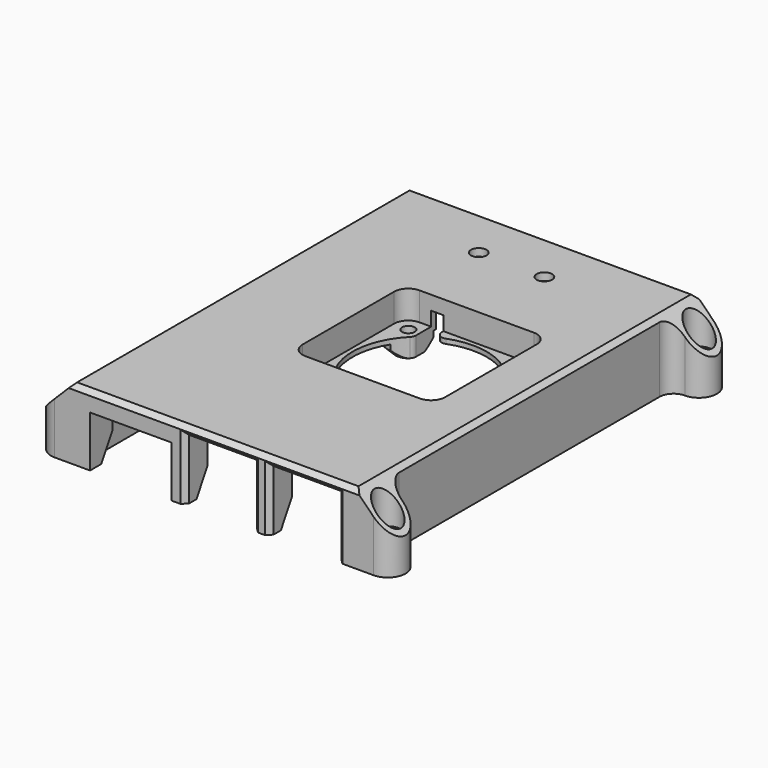
from build123d import *

# Parameters (mm, degrees)
PAD004_DEPTH         = 15
POCKET008_DEPTH      = 45.301
POCKET008_DEPTH_BACK = 45.301
HOLE002_D            = 3.3
HOLE002_CBORE_D      = 5.6
HOLE002_CBORE_DEPTH  = 8.8
POCKET010_DEPTH      = 13.4
PAD005_DEPTH         = 29
SKETCH019_W          = 17.4
SKETCH019_H          = 11.9
SKETCH019_W_2        = 14.5
SKETCH019_H_2        = 13.9
POCKET011_DEPTH      = 8
SKETCH021_W          = 16.5
SKETCH021_H          = 14.9
POCKET012_DEPTH      = 1.2
SKETCH022_W          = 16.5
SKETCH022_H          = 1.9
POCKET013_DEPTH      = 2
SKETCH023_W          = 22.5
SKETCH023_H          = 6
SKETCH023_W_2        = 15
SKETCH023_H_2        = 2
PAD006_DEPTH         = 0.5
SKETCH024_W          = 16.5
SKETCH024_H          = 5
POCKET014_DEPTH      = 5
SKETCH025_W          = 19.5
SKETCH025_H          = 5.5
SKETCH025_W_2        = 12
SKETCH025_H_2        = 1.5
POCKET015_DEPTH      = 1.2
POCKET015_DEPTH_BACK = 5
SKETCH026_R          = 2
SKETCH026_W          = 18
SKETCH026_H          = 1.5
POCKET016_DEPTH      = 3
SKETCH029_R          = 1.65
POCKET019_DEPTH      = 15.001
CHAMFER_SIZE         = 1.19
CHAMFER001_SIZE      = 0.99
CHAMFER002_SIZE      = 0.49
CHAMFER009_SIZE      = 1
PAD007_DEPTH         = 6
POCKET022_DEPTH      = 6
SKETCH036_R          = 4.5
PAD008_DEPTH         = 3
SKETCH034_R          = 14.3
SKETCH034_R_2        = 1.35
POCKET023_DEPTH      = 0.001
POCKET023_DEPTH_BACK = 15.001
SKETCH035_W          = 2.6
SKETCH035_H          = 10
POCKET024_DEPTH      = 20
CHAMFER010_SIZE      = 1.8
FILLET_R             = 1.5


with BuildPart() as part:
    # Sketch014 → Pad004 (new body)
    with BuildSketch(Plane.XY):
        with BuildLine():
            Line((-31, -34.7), (-31, 34.7))
            ThreePointArc((-31, 34.7), (-31.87868, 36.82132), (-34, 37.7))
            ThreePointArc((-34, 45.3), (-37.8, 41.5), (-34, 37.7))
            Line((-34, 45.3), (34, 45.3))
            ThreePointArc((34, 37.7), (37.8, 41.5), (34, 45.3))
            ThreePointArc((34, 37.7), (31.87868, 36.82132), (31, 34.7))
            Line((31, 34.7), (31, -34.7))
            ThreePointArc((31, -34.7), (31.87868, -36.82132), (34, -37.7))
            ThreePointArc((34, -45.3), (37.8, -41.5), (34, -37.7))
            Line((34, -45.3), (-34, -45.3))
            ThreePointArc((-34, -37.7), (-37.8, -41.5), (-34, -45.3))
            ThreePointArc((-34, -37.7), (-31.87868, -36.82132), (-31, -34.7))
        make_face()
    extrude(amount=PAD004_DEPTH)

    # Sketch015 → Pocket008 (cut, two sides)
    with BuildSketch(Plane.XZ) as pocket008_sk:
        Polygon((-39, 6), (-30, 15), (30, 15), (39, 6), (39, 17), (-39, 17), align=None)
    extrude(amount=-POCKET008_DEPTH, mode=Mode.SUBTRACT)
    extrude(pocket008_sk.sketch, amount=POCKET008_DEPTH_BACK, mode=Mode.SUBTRACT)

    # Hole002 (through all)
    with Locations(Plane.XY.offset(15)):
        with Locations((-34, 41.5), (34, 41.5), (-34, -41.5), (34, -41.5)):
            CounterBoreHole(HOLE002_D / 2, HOLE002_CBORE_D / 2, HOLE002_CBORE_DEPTH)

    # Sketch018 → Pocket010 (cut)
    with BuildSketch(Plane.XY):
        with BuildLine():
            ThreePointArc((-28.2, 43.3), (-28.765685, 43.065685), (-29, 42.5))
            Line((-29, -42.5), (-29, 42.5))
            ThreePointArc((-29, -42.5), (-28.765685, -43.065685), (-28.2, -43.3))
            Line((28.2, -43.3), (-28.2, -43.3))
            ThreePointArc((28.2, -43.3), (28.765685, -43.065685), (29, -42.5))
            Line((29, 42.5), (29, -42.5))
            ThreePointArc((29, 42.5), (28.765685, 43.065685), (28.2, 43.3))
            Line((-28.2, 43.3), (28.2, 43.3))
        make_face()
    extrude(amount=POCKET010_DEPTH, mode=Mode.SUBTRACT)

    # Sketch020 → Pad005 (join, symmetric)
    with BuildSketch(Plane.YZ):
        Polygon((-39.3, 13.4), (-43.3, 13.4), (-43.3, 0), (-42.3, 0), (-39.3, 5.196152), align=None)
    extrude(amount=PAD005_DEPTH, both=True)

    # Sketch019 → Pocket011 (cut)
    with BuildSketch(Plane.XZ.offset(45.5)):
        with Locations((-17.75, 4.95)):
            Rectangle(SKETCH019_W, SKETCH019_H)
        with Locations((1.1, 5.95)):
            Rectangle(SKETCH019_W_2, SKETCH019_H_2)
        with Locations((19.1, 5.95)):
            Rectangle(SKETCH019_W_2, SKETCH019_H_2)
    extrude(amount=-POCKET011_DEPTH, mode=Mode.SUBTRACT)

    # Sketch021 → Pocket012 (cut)
    with BuildSketch(Plane.XZ.offset(45.5)):
        with Locations((1.1, 6.45)):
            Rectangle(SKETCH021_W, SKETCH021_H)
        with Locations((19.1, 6.45)):
            Rectangle(SKETCH021_W, SKETCH021_H)
    extrude(amount=-POCKET012_DEPTH, mode=Mode.SUBTRACT)

    # Sketch022 → Pocket013 (cut)
    with BuildSketch(Plane.XY):
        with Locations((0.3, 45.05)):
            Rectangle(SKETCH022_W, SKETCH022_H)
    extrude(amount=POCKET013_DEPTH, mode=Mode.SUBTRACT)

    # Sketch023 → Pad006 (join)
    with BuildSketch(Plane.YZ.offset(-29)):
        with BuildLine():
            Line((-18.05, 0), (-5.05, 0))
            ThreePointArc((-5.05, 0), (-11.55, 6.5), (-18.05, 0))
        make_face()
        with Locations((9.95, 3)):
            Rectangle(SKETCH023_W, SKETCH023_H)
        with Locations((31.35, 1)):
            Rectangle(SKETCH023_W_2, SKETCH023_H_2)
    extrude(amount=PAD006_DEPTH)

    # Sketch024 → Pocket014 (cut)
    with BuildSketch(Plane.YZ.offset(-28.5)):
        with Locations((9.95, 1.5)):
            Rectangle(SKETCH024_W, SKETCH024_H)
        with BuildLine():
            ThreePointArc((-8.05, 0), (-11.55, 3.5), (-15.05, 0))
            Line((-15.05, 0), (-15.05, -1))
            Line((-15.05, -1), (-8.05, -1))
            Line((-8.05, -1), (-8.05, 0))
        make_face()
    extrude(amount=-POCKET014_DEPTH, mode=Mode.SUBTRACT)

    # Sketch025 → Pocket015 (cut, two sides)
    with BuildSketch(Plane.YZ.offset(-31)) as pocket015_sk:
        with BuildLine():
            Line((-16.55, 0), (-6.55, 0))
            ThreePointArc((-6.55, 0), (-11.55, 5), (-16.55, 0))
        make_face()
        with Locations((9.95, 2.75)):
            Rectangle(SKETCH025_W, SKETCH025_H)
        with Locations((31.35, 0.75)):
            Rectangle(SKETCH025_W_2, SKETCH025_H_2)
    extrude(amount=POCKET015_DEPTH, mode=Mode.SUBTRACT)
    extrude(pocket015_sk.sketch, amount=-POCKET015_DEPTH_BACK, mode=Mode.SUBTRACT)

    # Sketch026 → Pocket016 (cut)
    with BuildSketch(Plane.XZ.offset(-45.3)):
        with Locations((-25, 7.5)):
            Circle(SKETCH026_R)
        with Locations((-17.857143, 7.5)):
            Circle(SKETCH026_R)
        with Locations((-10.714286, 7.5)):
            Circle(SKETCH026_R)
        with Locations((-3.571429, 7.5)):
            Circle(SKETCH026_R)
        with Locations((3.571429, 7.5)):
            Circle(SKETCH026_R)
        with Locations((10.714286, 7.5)):
            Circle(SKETCH026_R)
        with Locations((17.857143, 7.5)):
            Circle(SKETCH026_R)
        with Locations((25, 7.5)):
            Circle(SKETCH026_R)
        with Locations((-16.95, -0.25)):
            Rectangle(SKETCH026_W, SKETCH026_H)
    extrude(amount=POCKET016_DEPTH, mode=Mode.SUBTRACT)

    # Sketch029 → Pocket019 (cut, through all)
    with BuildSketch(Plane.XY):
        with Locations((-7, 34)):
            Circle(SKETCH029_R)
        with Locations((7, 34)):
            Circle(SKETCH029_R)
    extrude(amount=POCKET019_DEPTH, mode=Mode.SUBTRACT)

    # Chamfer
    chamfer_edges = [part.edges().sort_by_distance(p)[0] for p in [
        (-29.8, 37.35, 0.75),
        (-29.8, 31.35, 1.5),
        (-29.8, 25.35, 0.75),
        (-29.8, 9.95, 5.5),
        (-29.8, 0.2, 2.75),
        (-29.8, 19.7, 2.75),
        (-29.8, -11.55, 5),
        (8.55, 44.1, 1),
        (0.3, 44.1, 2),
        (-7.95, 44.1, 1.25),
    ]]
    chamfer(chamfer_edges, length=CHAMFER_SIZE)

    # Chamfer001
    chamfer001_edges = [part.edges().sort_by_distance(p)[0] for p in [
        (-7.15, -44.3, 6.95),
        (1.1, -44.3, 13.9),
        (10.85, -44.3, 6.95),
        (19.1, -44.3, 13.9),
        (9.35, -44.3, 6.95),
        (27.35, -44.3, 6.95),
    ]]
    chamfer(chamfer001_edges, length=CHAMFER001_SIZE)

    # Chamfer002
    chamfer002_edges = [part.edges().sort_by_distance(p)[0] for p in [
        (-29, 9.95, 6),
        (-29, 21.2, 3),
        (-29, -1.3, 3),
        (-29, -11.55, 6.5),
        (-29, 23.85, 1),
        (-29, 31.35, 2),
        (-29, 38.85, 1),
    ]]
    chamfer(chamfer002_edges, length=CHAMFER002_SIZE)

    # Chamfer009
    chamfer009_edges = [part.edges().sort_by_distance(p)[0] for p in [
        (0, 45.3, 15),
        (0, -45.3, 15),
    ]]
    chamfer(chamfer009_edges, length=CHAMFER009_SIZE)

    # Sketch032 → Pad007 (join)
    with BuildSketch(Plane.XY.offset(14)):
        with BuildLine():
            ThreePointArc((-6, 18.5), (-9.181981, 17.181981), (-10.5, 14))
            Line((-10.5, -10), (-10.5, 14))
            ThreePointArc((-10.5, -10), (-9.181981, -13.181981), (-6, -14.5))
            Line((18, -14.5), (-6, -14.5))
            ThreePointArc((18, -14.5), (21.181981, -13.181981), (22.5, -10))
            Line((22.5, 14), (22.5, -10))
            ThreePointArc((22.5, 14), (21.181981, 17.181981), (18, 18.5))
            Line((-6, 18.5), (18, 18.5))
        make_face()
    extrude(amount=-PAD007_DEPTH)

    # Sketch033 → Pocket022 (cut)
    with BuildSketch(Plane.XY.offset(15)):
        with BuildLine():
            ThreePointArc((-6.2, 17.2), (-8.32132, 16.32132), (-9.2, 14.2))
            Line((-9.2, -10.2), (-9.2, 14.2))
            ThreePointArc((-9.2, -10.2), (-8.32132, -12.32132), (-6.2, -13.2))
            Line((18.2, -13.2), (-6.2, -13.2))
            ThreePointArc((18.2, -13.2), (20.32132, -12.32132), (21.2, -10.2))
            Line((21.2, 14.2), (21.2, -10.2))
            ThreePointArc((21.2, 14.2), (20.32132, 16.32132), (18.2, 17.2))
            Line((-6.2, 17.2), (18.2, 17.2))
        make_face()
    extrude(amount=-POCKET022_DEPTH, mode=Mode.SUBTRACT)

    # Sketch036 → Pad008 (join)
    with BuildSketch(Plane.XY.offset(8)):
        with Locations((-6, 14)):
            Circle(SKETCH036_R)
        with Locations((18, 14)):
            Circle(SKETCH036_R)
        with Locations((-6, -10)):
            Circle(SKETCH036_R)
        with Locations((18, -10)):
            Circle(SKETCH036_R)
    extrude(amount=-PAD008_DEPTH)

    # Sketch034 → Pocket023 (cut, two sides)
    with BuildSketch(Plane.XY) as pocket023_sk:
        with Locations((6, 2)):
            Circle(SKETCH034_R)
        with Locations((-6, 14)):
            Circle(SKETCH034_R_2)
        with Locations((18, 14)):
            Circle(SKETCH034_R_2)
        with Locations((18, -10)):
            Circle(SKETCH034_R_2)
        with Locations((-6, -10)):
            Circle(SKETCH034_R_2)
    extrude(amount=-POCKET023_DEPTH, mode=Mode.SUBTRACT)
    extrude(pocket023_sk.sketch, amount=POCKET023_DEPTH_BACK, mode=Mode.SUBTRACT)

    # Sketch035 → Pocket024 (cut)
    with BuildSketch(Plane.XZ):
        with Locations((-2.4, 7)):
            Rectangle(SKETCH035_W, SKETCH035_H)
    extrude(amount=-POCKET024_DEPTH, mode=Mode.SUBTRACT)

    # Chamfer010
    chamfer010_edges = [part.edges().sort_by_distance(p)[0] for p in [
        (18.08668, -14.499165, 5),
        (-9.181981, -13.181981, 5),
        (-10.315299, 15.276009, 5),
        (18.08668, 18.499165, 5),
    ]]
    chamfer(chamfer010_edges, length=CHAMFER010_SIZE)

    # Fillet
    fillet_edges = [part.edges().sort_by_distance(p)[0] for p in [
        (-3.7, 12.50714, 7),
        (-1.1, 14.412897, 8.5),
    ]]
    fillet(fillet_edges, radius=FILLET_R)


with BuildPart() as part_1:
    # Body001 placement: moved
    add(part.part.moved(Location((0, 0, 10.3))))


solid = part_1.part
